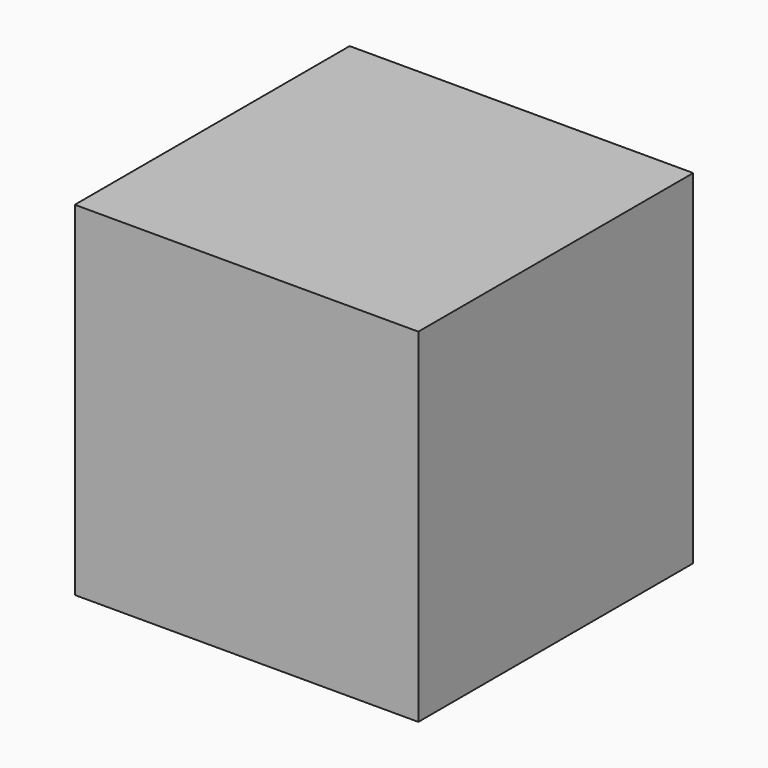
from build123d import *

# Parameters (mm, degrees)
SKETCH_W  = 25
SKETCH_H  = 25
PAD_DEPTH = 25


with BuildPart() as part:
    # Sketch → Pad (new body)
    with BuildSketch(Plane.XY):
        with Locations((-12.5, 12.5)):
            Rectangle(SKETCH_W, SKETCH_H)
    extrude(amount=PAD_DEPTH)


solid = part.part
